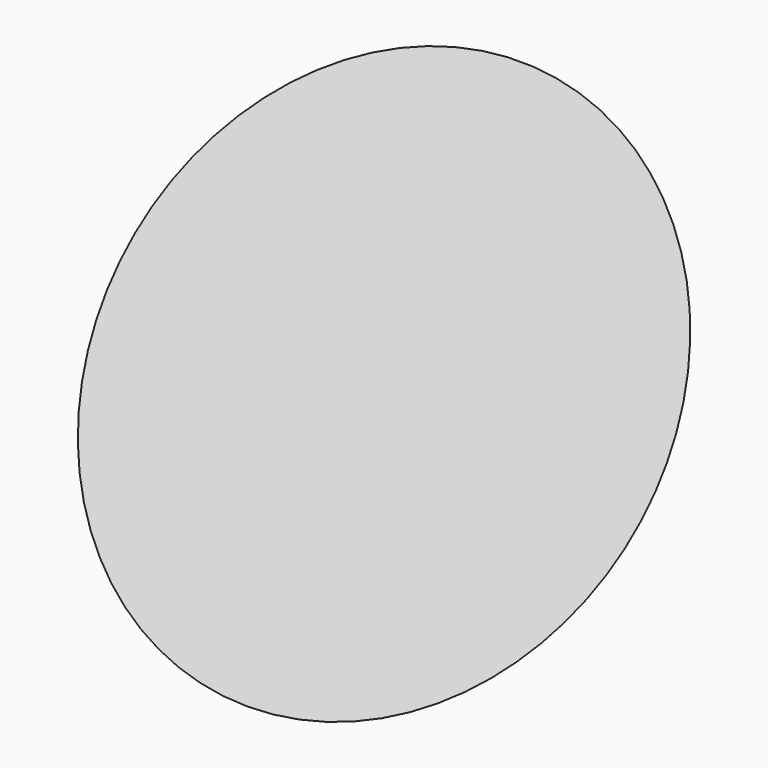
from build123d import *


with BuildPart() as f1:
    # F0 (on Right) → F1 (revolve)
    with BuildSketch(Plane.YZ):
        Polygon((-406.4, 0), (0, 0), (-248.9100542427, 197.9919971644), align=None)
    revolve(axis=Axis((0, -124.4550271213, 98.9959985822), (0, -0.7826081569, 0.6225146366)))


solid = f1.part
